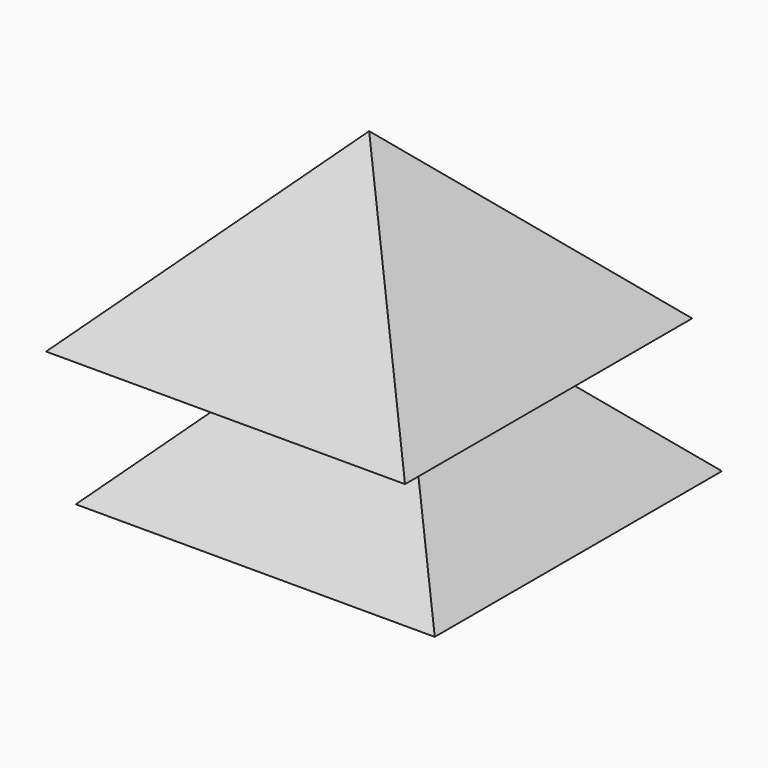
from build123d import *

# Parameters (mm, degrees)
F0_W     = 60
F0_H     = 60
F1_DEPTH = 30
F1_TAPER = 45
F3_W     = 60
F3_H     = 60
F4_DEPTH = 30
F4_TAPER = 45


with BuildPart() as f1:
    # F0 (on Top) → F1 (new body)
    with BuildSketch(Plane.XY):
        Rectangle(F0_W, F0_H)
    extrude(amount=F1_DEPTH, taper=F1_TAPER)

    # F3 (on offset) → F4 (join)
    with BuildSketch(Plane.XY.offset(25)):
        with Locations((0, -6.210045305)):
            Rectangle(F3_W, F3_H)
    extrude(amount=F4_DEPTH, taper=F4_TAPER)


solid = f1.part
